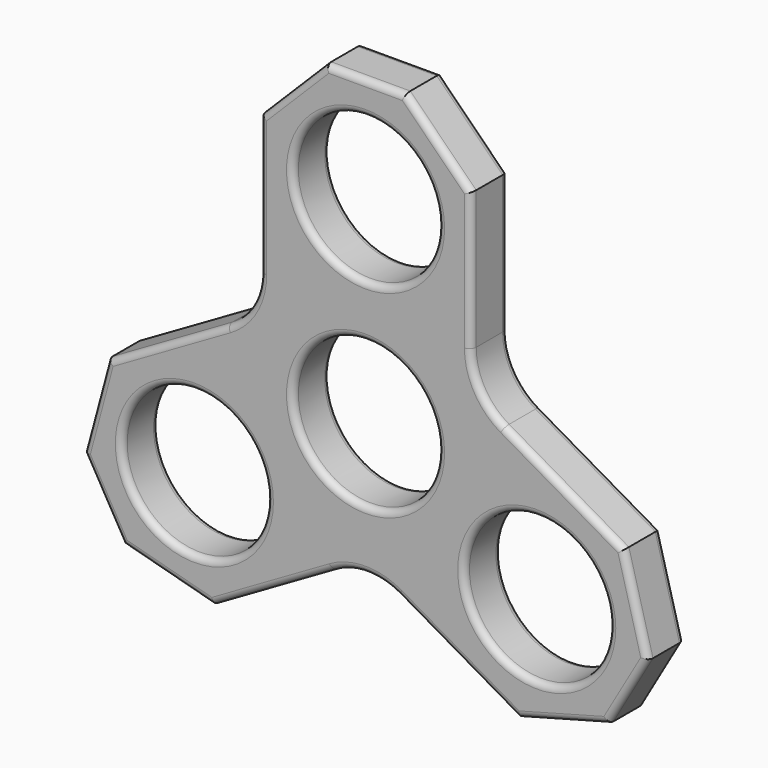
from build123d import *

# Parameters (mm, degrees)
F0_R     = 11
F1_DEPTH = 7
F2_COUNT = 3
F4_R     = 10
F5_SIZE  = 10
F6_R     = 1


with BuildPart() as f1:
    # F0 (on Front) → F1 (new body)
    with BuildSketch(Plane.XZ):
        with BuildLine():
            Line((-16, 46), (-16, 0))
            ThreePointArc((-16, 0), (0, -16), (16, 0))
            Line((16, 0), (16, 46))
            Line((16, 46), (-16, 46))
        make_face()
        Circle(F0_R, mode=Mode.SUBTRACT)
        with Locations((0, 30)):
            Circle(F0_R, mode=Mode.SUBTRACT)
    extrude(amount=F1_DEPTH)


with BuildPart() as f2_1:
    # F2: instance of F1
    add(f1.part.rotate(Axis((0, -7, 0), (0, -1, 0)), 1 * 360 / F2_COUNT))


with BuildPart() as f2_2:
    # F2: instance of F1
    add(f1.part.rotate(Axis((0, -7, 0), (0, -1, 0)), 2 * 360 / F2_COUNT))


with BuildPart() as f1_1:
    add(f1.part)

    # F3: union F2_1, F2_2
    add(f2_1.part)
    add(f2_2.part)

    # F4
    f4_edges = [f1_1.edges().sort_by_distance(p)[0] for p in [
        (-16, -3.5, 9.237604),
        (0, -3.5, -18.475209),
        (16, -3.5, 9.237604),
    ]]
    fillet(f4_edges, radius=F4_R)

    # F5
    f5_edges = [f1_1.edges().sort_by_distance(p)[0] for p in [
        (-16, -3.5, 46),
        (16, -3.5, 46),
        (47.837169, -3.5, -9.143594),
        (31.837169, -3.5, -36.856406),
        (-31.837169, -3.5, -36.856406),
        (-47.837169, -3.5, -9.143594),
    ]]
    chamfer(f5_edges, length=F5_SIZE)

    # F6
    f6_edges = [f1_1.edges().sort_by_distance(p)[0] for p in [
        (-14.088457, -7, -26.609183),
        (-30.007042, -7, -30.026279),
        (0, -7, -20.022214),
        (-39.837169, -7, -23),
        (14.088457, -7, -26.609183),
        (-41.007042, -7, -10.973721),
        (30.007042, -7, -30.026279),
        (-30.088457, -7, 1.10363),
        (39.837169, -7, -23),
        (-17.339746, -7, 10.011107),
        (41.007042, -7, -10.973721),
        (-16, -7, 25.505553),
        (30.088457, -7, 1.10363),
        (-11, -7, 41),
        (17.339746, -7, 10.011107),
        (0, -7, 46),
        (16, -7, 25.505553),
        (11, -7, 41),
        (-11, -7, 0),
        (31.480762, -7, -5.473721),
        (-20.480762, -7, -24.526279),
        (-11, -7, 30),
        (-14.088457, 0, -26.609183),
        (-30.007042, 0, -30.026279),
        (0, 0, -20.022214),
        (-39.837169, 0, -23),
        (14.088457, 0, -26.609183),
        (-41.007042, 0, -10.973721),
        (30.007042, 0, -30.026279),
        (-30.088457, 0, 1.10363),
        (39.837169, 0, -23),
        (-17.339746, 0, 10.011107),
        (41.007042, 0, -10.973721),
        (-16, 0, 25.505553),
        (30.088457, 0, 1.10363),
        (-11, 0, 41),
        (17.339746, 0, 10.011107),
        (0, 0, 46),
        (16, 0, 25.505553),
        (11, 0, 41),
        (-11, 0, 0),
        (31.480762, 0, -5.473721),
        (-20.480762, 0, -24.526279),
        (-11, 0, 30),
    ]]
    fillet(f6_edges, radius=F6_R)


solid = f1_1.part
